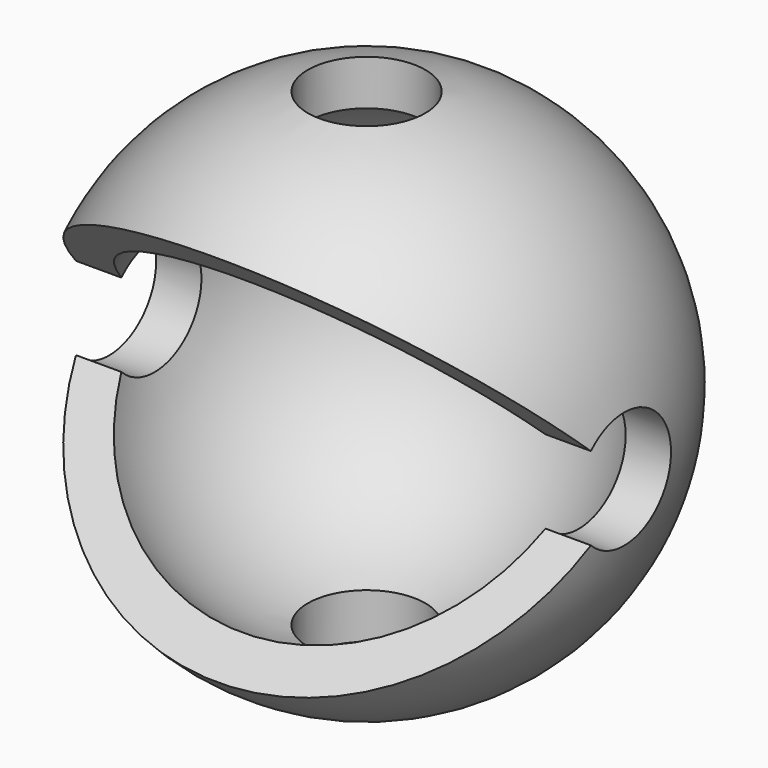
from build123d import *

# Parameters (mm, degrees)
F1_ANGLE = 270
F14_T    = -0.75
F3_D     = 2
F5_D     = 2
F7_ANGLE = 135
F9_D     = 2
F11_D    = 2
F13_D    = 2


with BuildPart() as f1:
    # F0 (on Top) → F1 (revolve)
    with BuildSketch(Plane.XY):
        with BuildLine():
            ThreePointArc((4.5, 0), (0, 4.5), (-4.5, 0))
            Line((-4.5, 0), (4.5, 0))
        make_face()
    revolve(axis=Axis((0.171331, 0, 0), (1, 0, 0)), revolution_arc=F1_ANGLE)

    # F14
    f14_openings = [f1.faces().sort_by_distance(p)[0] for p in [
        (0, 1.909859, 0),
        (0, 0, -1.909859),
    ]]
    offset(amount=F14_T, openings=f14_openings)

    # F3 (through all)
    with Locations(Plane.YZ):
        with Locations((0, 0)):
            Hole(F3_D / 2)

    # F5 (through all)
    with Locations(Plane(origin=(0, 0, 0), x_dir=(0, 1, 0), z_dir=(-1, 0, 0))):
        with Locations((0, 0)):
            Hole(F5_D / 2)


with BuildPart() as f1_1:
    # F7: moved
    add(f1.part.rotate(Axis((0, 0, 0), (-1, 0, 0)), F7_ANGLE))

    # F9 (through all)
    with Locations(Plane.XZ):
        with Locations((0, 0)):
            Hole(F9_D / 2)

    # F11 (through all)
    with Locations(Plane.XY):
        with Locations((0, 0)):
            Hole(F11_D / 2)

    # F13 (through all)
    with Locations(Plane(origin=(0, 0, 0), x_dir=(1, 0, 0), z_dir=(0, 0, -1))):
        with Locations((0, 0)):
            Hole(F13_D / 2)


solid = f1_1.part
